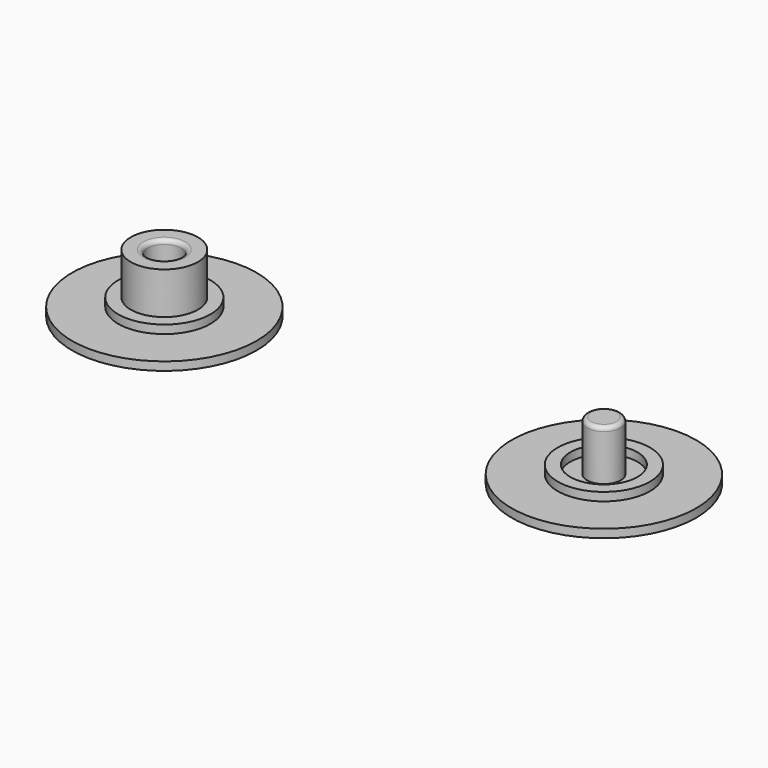
from build123d import *

# Parameters (mm, degrees)
F0_R     = 11
F0_R_2   = 5.5
F2_DEPTH = 1
F1_R     = 11
F1_R_2   = 5.5
F1_R_3   = 4
F1_R_4   = 2
F0_R_3   = 4
F3_DEPTH = 2
F0_R_4   = 2
F4_DEPTH = 7
F5_DEPTH = 1
F6_DEPTH = 1
F7_R     = 0.5
F7_2_R   = 0.5


with BuildPart() as f2:
    # F0 (on Top) → F2 (new body)
    with BuildSketch(Plane.XY):
        with Locations((-26.7346166074, 16.3153856993)):
            Circle(F0_R)
        with Locations((-26.7346166074, 16.3153856993)):
            Circle(F0_R_2, mode=Mode.SUBTRACT)
    extrude(amount=F2_DEPTH)


with BuildPart() as f2b:
    # F1 (on face) → F2, piece 2 (new body)
    with BuildSketch(Plane.XY):
        with Locations((26.2566003948, 15.5343096703)):
            Circle(F1_R)
        with Locations((26.2566003948, 15.5343096703)):
            Circle(F1_R_2, mode=Mode.SUBTRACT)
        with Locations((26.2566003948, 15.5343096703)):
            Circle(F1_R_2)
        with Locations((26.2566003948, 15.5343096703)):
            Circle(F1_R_3, mode=Mode.SUBTRACT)
        with Locations((26.2566003948, 15.5343096703)):
            Circle(F1_R_3)
        with Locations((26.2566003948, 15.5343096703)):
            Circle(F1_R_4, mode=Mode.SUBTRACT)
        with Locations((26.2566003948, 15.5343096703)):
            Circle(F1_R_4)
    extrude(amount=F2_DEPTH)


with BuildPart() as f3:
    # F0 (on Top) → F3 (new body)
    with BuildSketch(Plane.XY):
        with Locations((-26.7346166074, 16.3153856993)):
            Circle(F0_R_2)
        with Locations((-26.7346166074, 16.3153856993)):
            Circle(F0_R_3, mode=Mode.SUBTRACT)
    extrude(amount=F3_DEPTH)

    # F0 (on Top) → F4 (join)
    with BuildSketch(Plane.XY):
        with Locations((-26.7346166074, 16.3153856993)):
            Circle(F0_R_3)
        with Locations((-26.7346166074, 16.3153856993)):
            Circle(F0_R_4, mode=Mode.SUBTRACT)
    extrude(amount=F4_DEPTH)

    # F0 (on Top) → F6 (join)
    with BuildSketch(Plane.XY):
        with Locations((-26.7346166074, 16.3153856993)):
            Circle(F0_R_4)
    extrude(amount=F6_DEPTH)

    # F7
    f7_edges = [f3.edges().sort_by_distance(p)[0] for p in [
        (-28.734617, 16.315386, 7),
    ]]
    fillet(f7_edges, radius=F7_R)


with BuildPart() as f3b:
    # F1 (on face) → F3, piece 2 (new body)
    with BuildSketch(Plane.XY):
        with Locations((26.2566003948, 15.5343096703)):
            Circle(F1_R_2)
        with Locations((26.2566003948, 15.5343096703)):
            Circle(F1_R_3, mode=Mode.SUBTRACT)
    extrude(amount=F3_DEPTH)


with BuildPart() as f4:
    # F1 (on face) → F4, piece 2 (new body)
    with BuildSketch(Plane.XY):
        with Locations((26.2566003948, 15.5343096703)):
            Circle(F1_R_4)
    extrude(amount=F4_DEPTH)

    # F7#2
    f7_2_edges = [f4.edges().sort_by_distance(p)[0] for p in [
        (24.2566, 15.53431, 7),
    ]]
    fillet(f7_2_edges, radius=F7_2_R)


with BuildPart() as f5:
    # F1 (on face) → F5 (new body)
    with BuildSketch(Plane.XY):
        with Locations((26.2566003948, 15.5343096703)):
            Circle(F1_R_3)
        with Locations((26.2566003948, 15.5343096703)):
            Circle(F1_R_4, mode=Mode.SUBTRACT)
    extrude(amount=F5_DEPTH)


solid = Compound([f2.part, f2b.part, f3.part, f3b.part, f4.part, f5.part])
